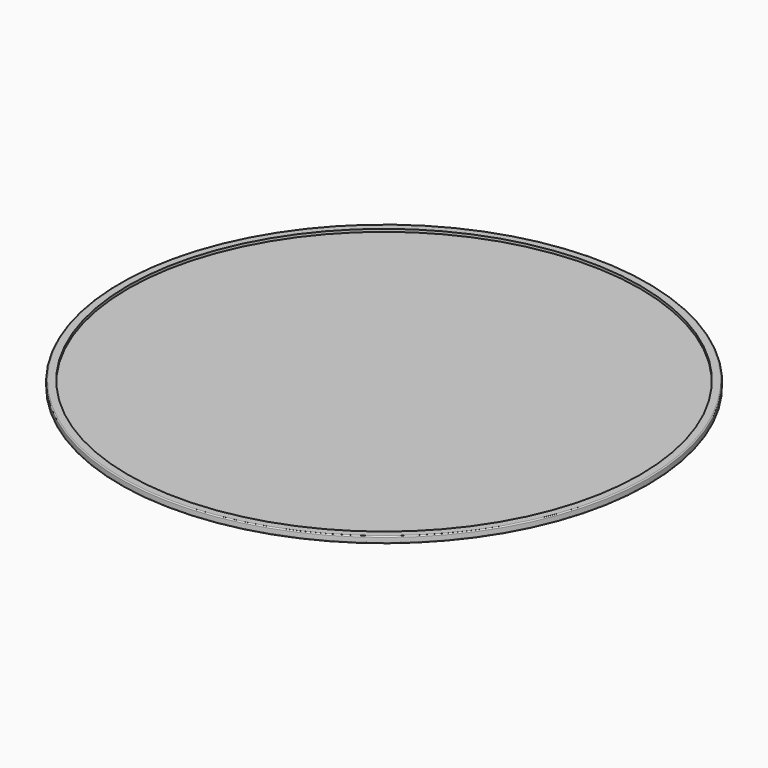
from build123d import *

# Parameters (mm, degrees)
F0_R     = 127
F1_DEPTH = 3.175
F2_R     = 0.508
F3_R     = 123.19
F4_DEPTH = 1.27


with BuildPart() as f1:
    # F0 (on Top) → F1 (new body)
    with BuildSketch(Plane.XY):
        Circle(F0_R)
    extrude(amount=F1_DEPTH)

    # F2
    f2_edges = [f1.edges().sort_by_distance(p)[0] for p in [
        (-127, 0, 0),
        (-127, 0, 3.175),
    ]]
    fillet(f2_edges, radius=F2_R)

    # F3 (on face) → F4 (cut)
    with BuildSketch(Plane.XY.offset(3.175)):
        Circle(F3_R)
    extrude(amount=-F4_DEPTH, mode=Mode.SUBTRACT)


solid = f1.part
